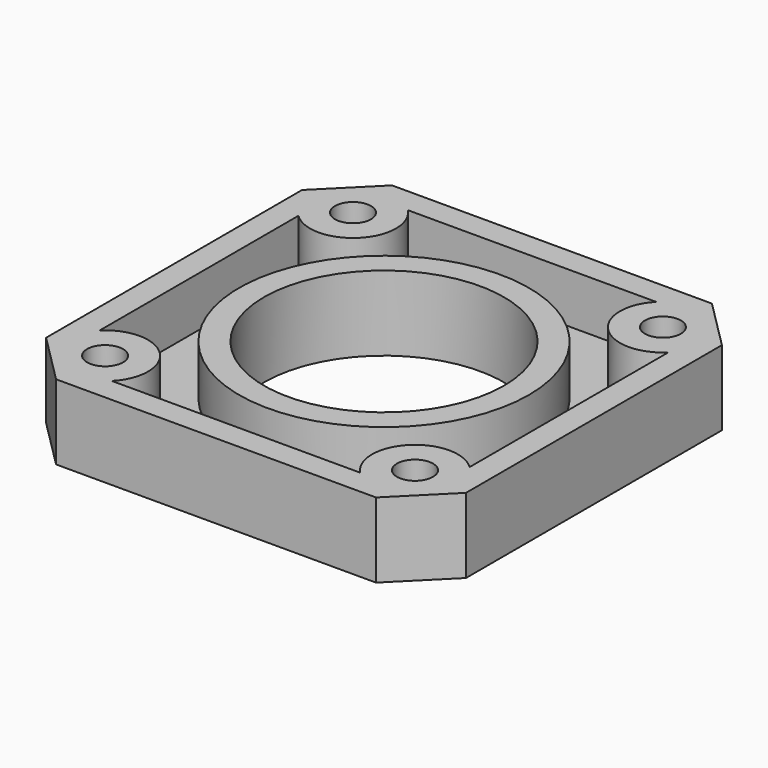
from build123d import *

# Parameters (mm, degrees)
F0_W     = 42
F0_H     = 42
F0_R     = 1.8
F0_R_2   = 12
F1_DEPTH = 7.5
F2_SIZE  = 5
F3_T     = -2.5


with BuildPart() as f1:
    # F0 (on Top) → F1 (new body)
    with BuildSketch(Plane.XY):
        Rectangle(F0_W, F0_H)
        with Locations((-15.5, -15.5)):
            Circle(F0_R, mode=Mode.SUBTRACT)
        with Locations((15.5, -15.5)):
            Circle(F0_R, mode=Mode.SUBTRACT)
        with Locations((-15.5, 15.5)):
            Circle(F0_R, mode=Mode.SUBTRACT)
        Circle(F0_R_2, mode=Mode.SUBTRACT)
        with Locations((15.5, 15.5)):
            Circle(F0_R, mode=Mode.SUBTRACT)
    extrude(amount=F1_DEPTH)

    # F2
    f2_edges = [f1.edges().sort_by_distance(p)[0] for p in [
        (21, -21, 3.75),
        (21, 21, 3.75),
        (-21, -21, 3.75),
        (-21, 21, 3.75),
    ]]
    chamfer(f2_edges, length=F2_SIZE)

    # F3
    f3_openings = [f1.faces().sort_by_distance(p)[0] for p in [
        (20.40603, 0, 7.5),
    ]]
    offset(amount=F3_T, openings=f3_openings)


solid = f1.part
